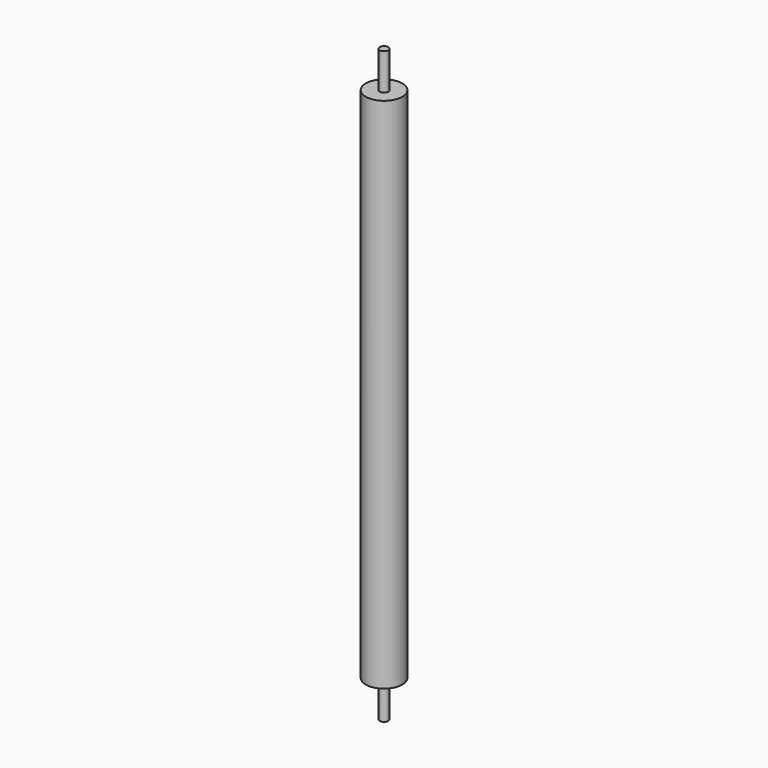
from build123d import *

# Parameters (mm, degrees)
F0_R     = 63.5
F1_DEPTH = 1803.4
F3_R     = 15.24
F4_DEPTH = 127
F5_R     = 15.24
F6_DEPTH = 127


with BuildPart() as f1:
    # F0 (on Top) → F1 (new body)
    with BuildSketch(Plane.XY):
        Circle(F0_R)
    extrude(amount=F1_DEPTH)

    # F3 (on offset) → F4 (join)
    with BuildSketch(Plane.XY.offset(1803.4)):
        Circle(F3_R)
    extrude(amount=F4_DEPTH)

    # F5 (on Top) → F6 (join)
    with BuildSketch(Plane.XY):
        Circle(F5_R)
    extrude(amount=-F6_DEPTH)


solid = f1.part
